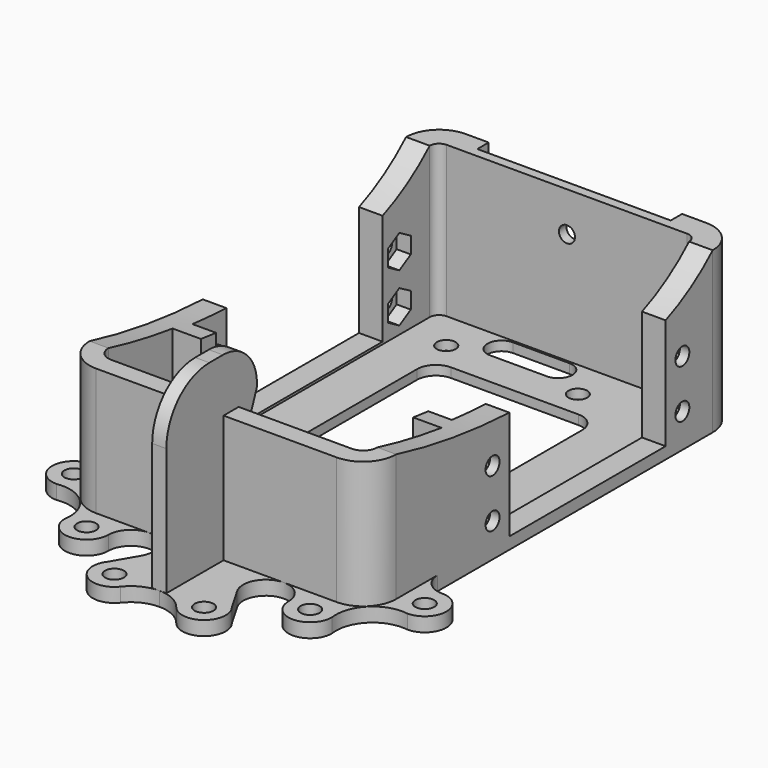
from build123d import *

# Parameters (mm, degrees)
PAD002_DEPTH    = 1.5
SKETCH_R        = 2
PAD_DEPTH       = 3
PAD001_DEPTH    = 31
POCKET_DEPTH    = 32
POCKET001_DEPTH = 32.501
SKETCH005_R     = 1.85
POCKET002_DEPTH = 32.501
POCKET003_DEPTH = 3
FILLET_R        = 3
SKETCH008_R     = 2
POCKET004_DEPTH = 2.001
POCKET005_DEPTH = 2.001
POCKET006_DEPTH = 2.001
POCKET007_DEPTH = 2.001
POCKET008_DEPTH = 3
SKETCH013_R     = 1.7
POCKET009_DEPTH = 4


with BuildPart() as caster_wheel:
    # Sketch007 → Pad002 (new body, symmetric)
    with BuildSketch(Plane.YZ):
        with BuildLine():
            Line((-54.2, 0), (-54.2, 30))
            ThreePointArc((-42.800001, 41.4), (-50.861018, 38.061017), (-54.2, 30))
            Line((-42.800001, 41.4), (-39.200001, 41.4))
            ThreePointArc((-30.2, 31.730761), (-32.595179, 38.524521), (-39.200001, 41.4))
            ThreePointArc((-30.2, 31.730761), (-33.33331, 22.534437), (-35.2, 13))
            Line((-35.2, 0), (-35.2, 13))
            Line((-54.2, 0), (-35.2, 0))
        make_face()
    extrude(amount=PAD002_DEPTH, both=True)


with BuildPart() as reinforcement:
    # Sketch → Pad (new body)
    with BuildSketch(Plane.XY):
        with BuildLine():
            ThreePointArc((5.891347, -57.052652), (12.352652, -57.808653), (13.108653, -51.347348))
            Line((10.149025, -46.250271), (13.108653, -51.347348))
            ThreePointArc((19.1, -43.84), (13.051938, -39.205095), (10.149025, -46.250271))
            ThreePointArc((19.1, -43.84), (23.7, -48.44), (28.3, -43.84))
            ThreePointArc((37.2, -34.94), (30.489555, -37.129555), (28.3, -43.84))
            ThreePointArc((37.2, -34.94), (41.8, -30.34), (37.2, -25.74))
            ThreePointArc((32.5, -21.04), (33.876598, -24.363402), (37.2, -25.74))
            Line((32.5, 51.843044), (32.5, -21.04))
            ThreePointArc((32.5, 51.843044), (30.449747, 56.792791), (25.5, 58.843044))
            Line((0, 58.843044), (25.5, 58.843044))
            Line((0, 58.843044), (0, -54.2))
            ThreePointArc((5.891347, -57.052652), (3.272827, -54.950682), (0, -54.2))
        make_face()
        with Locations((9.5, -54.2)):
            Circle(SKETCH_R, mode=Mode.SUBTRACT)
        with Locations((23.7, -43.84)):
            Circle(SKETCH_R, mode=Mode.SUBTRACT)
        with Locations((37.2, -30.34)):
            Circle(SKETCH_R, mode=Mode.SUBTRACT)
    extrude(amount=PAD_DEPTH)

    # Sketch001 → Pad001 (new body)
    with BuildSketch(Plane.XY.offset(3)):
        with BuildLine():
            Line((0, 58.843044), (25.5, 58.843044))
            ThreePointArc((32.5, 51.843044), (30.449747, 56.792791), (25.5, 58.843044))
            Line((32.5, 51.843044), (32.5, -32.04))
            ThreePointArc((25.5, -39.04), (30.449747, -36.989747), (32.5, -32.04))
            Line((0, -39.04), (25.5, -39.04))
            Line((0, 58.843044), (0, -39.04))
        make_face()
    extrude(amount=PAD001_DEPTH)

    # Sketch003 → Pocket (cut)
    with BuildSketch(Plane.XY.offset(34)):
        with BuildLine():
            Line((0, 53.843044), (25.5, 53.843044))
            ThreePointArc((27.5, 51.843044), (26.914214, 53.257258), (25.5, 53.843044))
            Line((27.5, 51.843044), (27.5, -11.04))
            Line((27.5, -11.04), (22.5, -11.04))
            Line((22.5, -11.04), (22.5, -15.04))
            Line((22.5, -15.04), (28.5, -15.04))
            Line((28.5, -15.04), (28.5, -32.04))
            ThreePointArc((25.5, -35.04), (27.62132, -34.16132), (28.5, -32.04))
            Line((0, -35.04), (25.5, -35.04))
            Line((0, 53.843044), (0, -35.04))
        make_face()
    extrude(amount=-POCKET_DEPTH, mode=Mode.SUBTRACT)

    # Sketch004 → Pocket001 (cut, through all)
    with BuildSketch(Plane.YZ.offset(32.5)):
        with BuildLine():
            Line((-39.04, 30), (-32.04, 30))
            ThreePointArc((-32.04, 30), (-17.151462, 27.04003), (-2.04, 25.6))
            Line((-2.04, 25.6), (-2.04, 2.5))
            Line((-2.04, 2.5), (39.36, 2.5))
            Line((39.36, 2.5), (39.36, 26))
            ThreePointArc((39.36, 26), (45.975424, 29.41657), (51.843044, 34))
            Line((51.843044, 35), (51.843044, 34))
            Line((-39.04, 35), (51.843044, 35))
            Line((-39.04, 30), (-39.04, 35))
        make_face()
    extrude(amount=-POCKET001_DEPTH, mode=Mode.SUBTRACT)

    # Sketch005 → Pocket002 (cut, through all)
    with BuildSketch(Plane.YZ.offset(32.5)):
        with Locations((-6.5, 17.5)):
            Circle(SKETCH005_R)
        with Locations((-6.5, 7.2)):
            Circle(SKETCH005_R)
        with Locations((43.8, 17.5)):
            Circle(SKETCH005_R)
        with Locations((43.8, 7.2)):
            Circle(SKETCH005_R)
    extrude(amount=-POCKET002_DEPTH, mode=Mode.SUBTRACT)

    # Sketch006 → Pocket003 (cut)
    with BuildSketch(Plane(origin=(27.5, 0, 0), x_dir=(0, -1, 0), z_dir=(-1, 0, 0))):
        Polygon((-43.8, 21), (-46.831089, 19.25), (-46.831089, 15.75), (-43.8, 14), (-40.768911, 15.75), (-40.768911, 19.25), align=None)
        Polygon((-43.8, 10.7), (-46.831089, 8.95), (-46.831089, 5.45), (-43.8, 3.7), (-40.768911, 5.45), (-40.768911, 8.95), align=None)
        Polygon((3.468911, 19.25), (6.5, 21), (9.531089, 19.25), (9.531089, 15.75), (6.5, 14), (3.468911, 15.75), align=None)
        Polygon((3.468911, 8.95), (6.5, 10.7), (9.531089, 8.95), (9.531089, 5.45), (6.5, 3.7), (3.468911, 5.45), align=None)
    extrude(amount=-POCKET003_DEPTH, mode=Mode.SUBTRACT)

    # Fillet
    fillet_edges = [reinforcement.edges().sort_by_distance(p)[0] for p in [
        (22.5, -13.04, 2),
    ]]
    fillet(fillet_edges, radius=FILLET_R)


with BuildPart() as frontal_drill:
    # Part__Mirroring: instance of reinforcement
    add(reinforcement.part.mirror(Plane(origin=(0, 0, 0), x_dir=(0, -1, 0), z_dir=(1, 0, 0))))

    # Fusion002: union reinforcement
    add(reinforcement.part)

    # Fusion003: union caster-wheel
    add(caster_wheel.part)

    # Sketch008 → Pocket004 (cut, through all)
    with BuildSketch(Plane.XY.offset(2)):
        with Locations((-19, 45.6)):
            Circle(SKETCH008_R)
        with Locations((-24, -6.4)):
            Circle(SKETCH008_R)
        with Locations((8.9, 45.6)):
            Circle(SKETCH008_R)
        with Locations((24.1, -5.2)):
            Circle(SKETCH008_R)
    extrude(amount=-POCKET004_DEPTH, mode=Mode.SUBTRACT)

    # Sketch009 → Pocket005 (cut, through all)
    with BuildSketch(Plane.XY.offset(2)):
        with BuildLine():
            Line((-13.5, 40), (13.5, 40))
            ThreePointArc((17.5, 36), (16.328427, 38.828427), (13.5, 40))
            Line((17.5, 36), (17.5, 5))
            ThreePointArc((13.5, 1), (16.328427, 2.171573), (17.5, 5))
            Line((13.5, 1), (-13.5, 1))
            ThreePointArc((-17.5, 5), (-16.328427, 2.171573), (-13.5, 1))
            Line((-17.5, 5), (-17.5, 36))
            ThreePointArc((-13.5, 40), (-16.328427, 38.828427), (-17.5, 36))
        make_face()
    extrude(amount=-POCKET005_DEPTH, mode=Mode.SUBTRACT)

    # Sketch010 → Pocket006 (cut, through all)
    with BuildSketch(Plane.XY.offset(2)):
        with BuildLine():
            ThreePointArc((-11.1, 53.4), (-14.1, 50.4), (-11.1, 47.4))
            Line((-11.1, 47.4), (0.9, 47.4))
            ThreePointArc((0.9, 47.4), (3.900001, 50.4), (0.9, 53.4))
            Line((-11.1, 53.4), (0.9, 53.4))
        make_face()
    extrude(amount=-POCKET006_DEPTH, mode=Mode.SUBTRACT)

    # Sketch011 → Pocket007 (cut, through all)
    with BuildSketch(Plane.XY.offset(2)):
        with BuildLine():
            Line((-15.3, -16), (14.5, -16))
            ThreePointArc((17.5, -19), (16.62132, -16.87868), (14.5, -16))
            Line((17.5, -19), (17.5, -28))
            ThreePointArc((14.5, -31), (16.62132, -30.12132), (17.5, -28))
            Line((14.5, -31), (-13.3, -31))
            ThreePointArc((-13.3, -31), (-17.014419, -31.686132), (-20, -34))
            ThreePointArc((-23.8, -31), (-23.392729, -34.390789), (-20, -34))
            Line((-23.8, -31), (-20, -26.5))
            ThreePointArc((-20, -26.5), (-18.056456, -23.194206), (-17.5, -19.4))
            ThreePointArc((-15.3, -16), (-17.060243, -17.272784), (-17.5, -19.4))
        make_face()
    extrude(amount=-POCKET007_DEPTH, mode=Mode.SUBTRACT)

    # Sketch012 → Pocket008 (cut)
    with BuildSketch(Plane(origin=(0, 58.843044, 0), x_dir=(-1, 0, 0), z_dir=(0, 1, 0))):
        with BuildLine():
            Line((-20.4, 34), (20.6, 34))
            Line((20.6, 34), (20.6, 22))
            ThreePointArc((18.6, 20), (20.014214, 20.585786), (20.6, 22))
            Line((18.6, 20), (-18.4, 20))
            ThreePointArc((-20.4, 22), (-19.814214, 20.585786), (-18.4, 20))
            Line((-20.4, 22), (-20.4, 34))
        make_face()
    extrude(amount=-POCKET008_DEPTH, mode=Mode.SUBTRACT)

    # Sketch013 → Pocket009 (cut)
    with BuildSketch(Plane(origin=(0, 55.843044, 0), x_dir=(-1, 0, 0), z_dir=(0, 1, 0))):
        with Locations((0, 25.6)):
            Circle(SKETCH013_R)
    extrude(amount=-POCKET009_DEPTH, mode=Mode.SUBTRACT)


solid = frontal_drill.part
